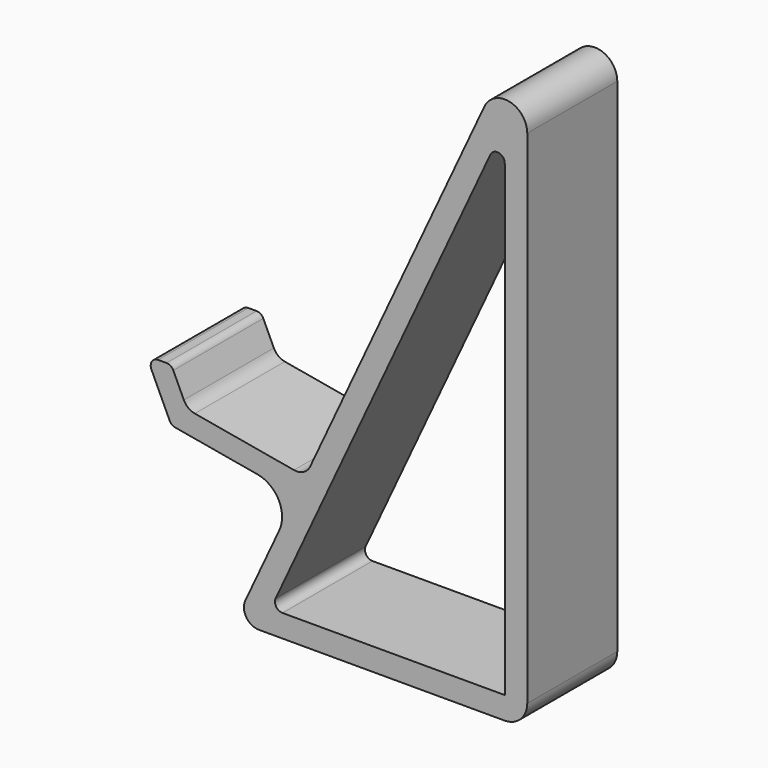
from build123d import *

# Parameters (mm, degrees)
PAD_DEPTH   = 15
FILLET_R    = 3
FILLET001_R = 2
FILLET002_R = 3
FILLET003_R = 1
FILLET004_R = 1
FILLET005_R = 4
FILLET006_R = 2
FILLET007_R = 1


with BuildPart() as part:
    # Sketch → Pad (new body)
    with BuildSketch(Plane.XZ):
        Polygon((38.909431, 83.441545), (38.909431, 0), (0, 0), (8.058298, 17.281077), (-8.54243, 20.208233), (-11.853996, 27.30991), (-8.543862, 27.30991), (-6.430771, 22.778371), (9.326153, 20), align=None)
        Polygon((35.909431, 69.90942), (4.709057, 3), (35.909431, 3), align=None, mode=Mode.SUBTRACT)
    extrude(amount=PAD_DEPTH)

    # Fillet
    fillet_edges = [part.edges().sort_by_distance(p)[0] for p in [
        (38.909431, -7.5, 0),
    ]]
    fillet(fillet_edges, radius=FILLET_R)

    # Fillet001
    fillet001_edges = [part.edges().sort_by_distance(p)[0] for p in [
        (0, -7.5, 0),
    ]]
    fillet(fillet001_edges, radius=FILLET001_R)

    # Fillet002
    fillet002_edges = [part.edges().sort_by_distance(p)[0] for p in [
        (38.909431, -7.5, 83.441545),
    ]]
    fillet(fillet002_edges, radius=FILLET002_R)

    # Fillet003
    fillet003_edges = [part.edges().sort_by_distance(p)[0] for p in [
        (35.909431, -7.5, 69.90942),
    ]]
    fillet(fillet003_edges, radius=FILLET003_R)

    # Fillet004
    fillet004_edges = [part.edges().sort_by_distance(p)[0] for p in [
        (4.709057, -7.5, 3),
    ]]
    fillet(fillet004_edges, radius=FILLET004_R)

    # Fillet005
    fillet005_edges = [part.edges().sort_by_distance(p)[0] for p in [
        (8.058298, -7.5, 17.281077),
    ]]
    fillet(fillet005_edges, radius=FILLET005_R)

    # Fillet006
    fillet006_edges = [part.edges().sort_by_distance(p)[0] for p in [
        (-6.430771, -7.5, 22.778371),
        (9.326153, -7.5, 20),
    ]]
    fillet(fillet006_edges, radius=FILLET006_R)

    # Fillet007
    fillet007_edges = [part.edges().sort_by_distance(p)[0] for p in [
        (-8.543862, -7.5, 27.30991),
        (-11.853996, -7.5, 27.30991),
        (-8.54243, -7.5, 20.208233),
    ]]
    fillet(fillet007_edges, radius=FILLET007_R)


solid = part.part
